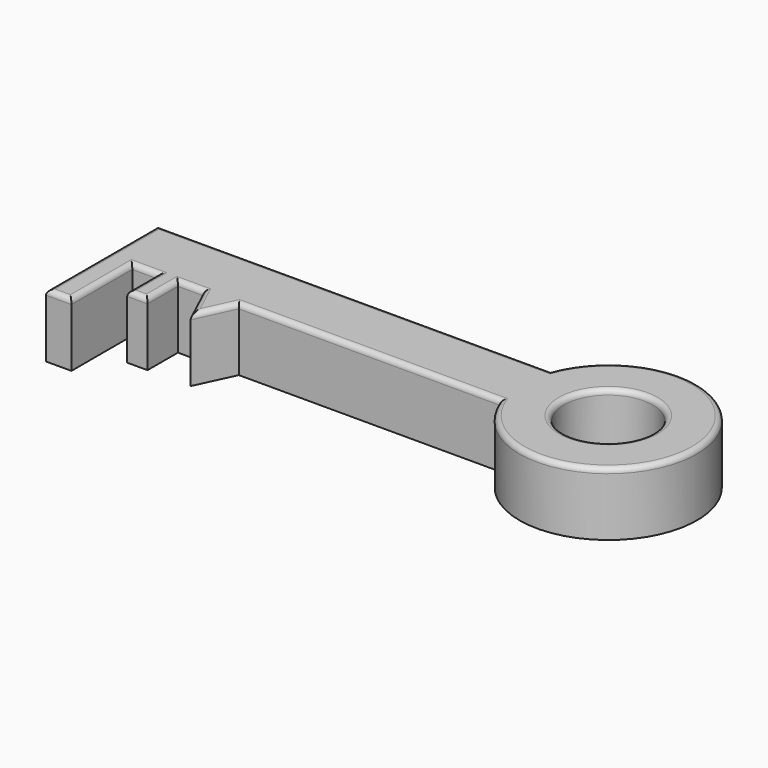
from build123d import *

# Parameters (mm, degrees)
F0_R     = 17.5
F1_DEPTH = 25
F2_R     = 2


with BuildPart() as f1:
    # F0 (on Top) → F1 (new body)
    with BuildSketch(Plane.XY):
        with BuildLine():
            Line((82.20284, 0.879099), (-72.79716, 0.879099))
            Line((-72.79716, 0.879099), (-72.79716, -24.120901))
            Line((-72.79716, -24.120901), (-72.79716, -54.120901))
            Line((-72.79716, -54.120901), (-62.79716, -54.120901))
            Line((-62.79716, -54.120901), (-62.79716, -24.120901))
            Line((-62.79716, -24.120901), (-52.79716, -24.120901))
            Line((-52.79716, -24.120901), (-52.79716, -39.120901))
            Line((-52.79716, -39.120901), (-44.79716, -39.120901))
            Line((-44.79716, -39.120901), (-44.79716, -24.120901))
            Line((-44.79716, -24.120901), (-34.79716, -24.120901))
            Line((-34.79716, -24.120901), (-20.796902, -24.120901))
            Line((-20.796902, -24.120901), (82.20284, -24.120901))
            ThreePointArc((82.20284, -24.120901), (149.894582, -11.620901), (82.20284, 0.879099))
        make_face()
        with Locations((114.894582, -11.620901)):
            Circle(F0_R, mode=Mode.SUBTRACT)
        Polygon((-27.797031, -39.120901), (-20.796902, -24.120901), (-34.79716, -24.120901), align=None)
    extrude(amount=F1_DEPTH)

    # F2
    f2_edges = [f1.edges().sort_by_distance(p)[0] for p in [
        (4.70284, 0.879099, 25),
        (-72.79716, -26.620901, 25),
        (-67.79716, -54.120901, 25),
        (-62.79716, -39.120901, 25),
        (-57.79716, -24.120901, 25),
        (-52.79716, -31.620901, 25),
        (-48.79716, -39.120901, 25),
        (-44.79716, -31.620901, 25),
        (-39.79716, -24.120901, 25),
        (-31.297096, -31.620901, 25),
        (-24.296967, -31.620901, 25),
        (30.702969, -24.120901, 25),
        (149.894582, -11.620901, 25),
        (97.394582, -11.620901, 25),
    ]]
    fillet(f2_edges, radius=F2_R)


solid = f1.part
